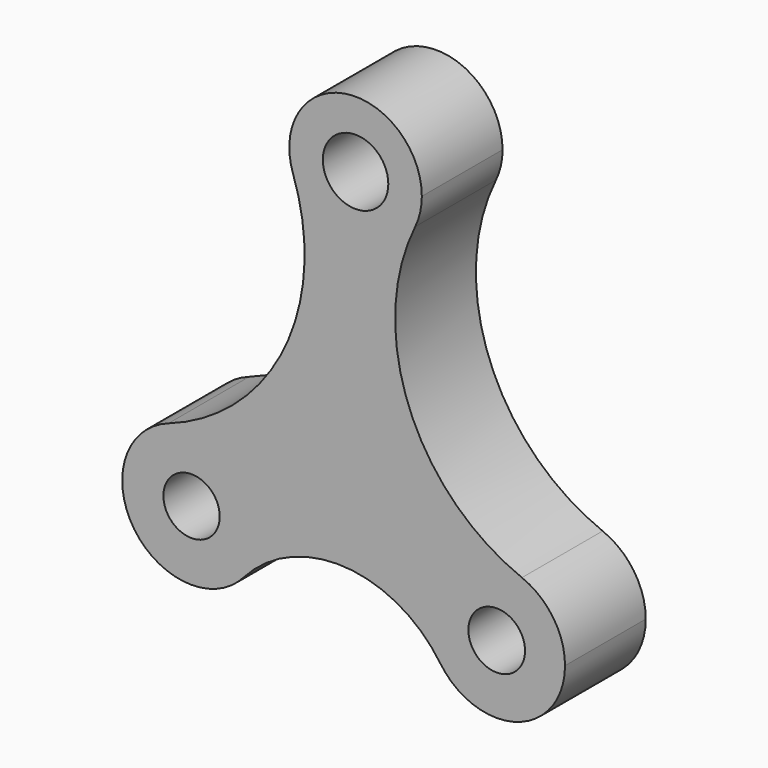
from build123d import *

# Parameters (mm, degrees)
F0_R     = 8.24218
F0_R_2   = 7.090267
F0_R_3   = 7.13126
F1_DEPTH = 25.4


with BuildPart() as f1:
    # F0 (on Front) → F1 (new body)
    with BuildSketch(Plane.XZ):
        with BuildLine():
            ThreePointArc((15.015572, 44.421411), (-0.936645, 35.031458), (-15.735387, 46.150886))
            ThreePointArc((-15.735387, 46.150886), (-17.859834, 6.909148), (-47.089189, -19.360076))
            ThreePointArc((-47.089189, -19.360076), (-31.198619, -21.564417), (-23.82385, -35.811597))
            ThreePointArc((-23.82385, -35.811597), (-24.94797, -41.973301), (-28.175494, -47.341107))
            ThreePointArc((-28.175494, -47.341107), (-2.68177, -36.728091), (21.357228, -50.318259))
            ThreePointArc((21.357228, -50.318259), (22.092081, -29.862581), (41.875179, -24.608653))
            ThreePointArc((41.875179, -24.608653), (13.410108, 4.056155), (15.015572, 44.421411))
        make_face()
        with BuildLine():
            ThreePointArc((15.015572, 44.421411), (16.258835, 47.959291), (16.680358, 51.685497))
            ThreePointArc((16.680358, 51.685497), (-2.807352, 68.127915), (-15.735387, 46.150886))
            ThreePointArc((-15.735387, 46.150886), (-0.936645, 35.031458), (15.015572, 44.421411))
        make_face()
        with Locations((0, 51.685497)):
            Circle(F0_R, mode=Mode.SUBTRACT)
        with BuildLine():
            ThreePointArc((-23.82385, -35.811597), (-31.198619, -21.564417), (-47.089189, -19.360076))
            ThreePointArc((-47.089189, -19.360076), (-55.729658, -45.583419), (-28.175494, -47.341107))
            ThreePointArc((-28.175494, -47.341107), (-24.94797, -41.973301), (-23.82385, -35.811597))
        make_face()
        with Locations((-41.273167, -35.811597)):
            Circle(F0_R_2, mode=Mode.SUBTRACT)
        with BuildLine():
            ThreePointArc((52.721042, -40.586339), (49.753447, -30.930781), (41.875179, -24.608653))
            ThreePointArc((41.875179, -24.608653), (22.092081, -29.862581), (21.357228, -50.318259))
            ThreePointArc((21.357228, -50.318259), (40.624096, -57.005833), (52.721042, -40.586339))
        make_face()
        with Locations((35.52927, -40.586339)):
            Circle(F0_R_3, mode=Mode.SUBTRACT)
    extrude(amount=F1_DEPTH)


solid = f1.part
